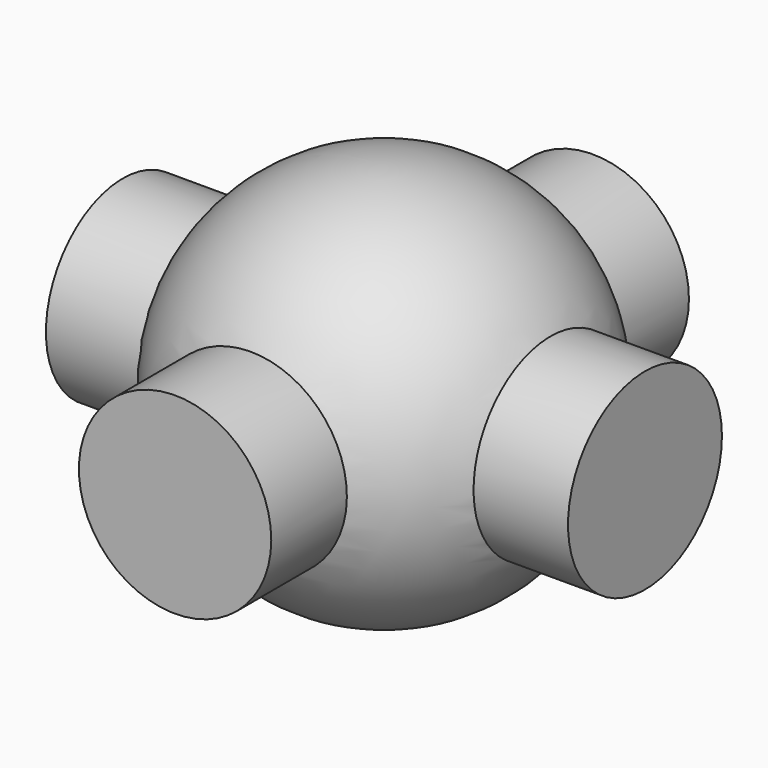
from build123d import *

# Parameters (mm, degrees)
F2_R     = 17.5
F3_DEPTH = 47.5
F4_R     = 17.5
F5_DEPTH = 47.5


with BuildPart() as f1:
    # F0 (on Front) → F1 (revolve)
    with BuildSketch(Plane.XZ):
        with BuildLine():
            Line((0, -35), (0, 35))
            ThreePointArc((0, 35), (-35, 0), (0, -35))
        make_face()
    revolve(axis=Axis((0, 0, 0), (0, 0, -1)))

    # F2 (on Front) → F3 (join, symmetric)
    with BuildSketch(Plane.XZ):
        Circle(F2_R)
    extrude(amount=F3_DEPTH, both=True)

    # F4 (on Right) → F5 (join, symmetric)
    with BuildSketch(Plane.YZ):
        Circle(F4_R)
    extrude(amount=F5_DEPTH, both=True)


solid = f1.part
